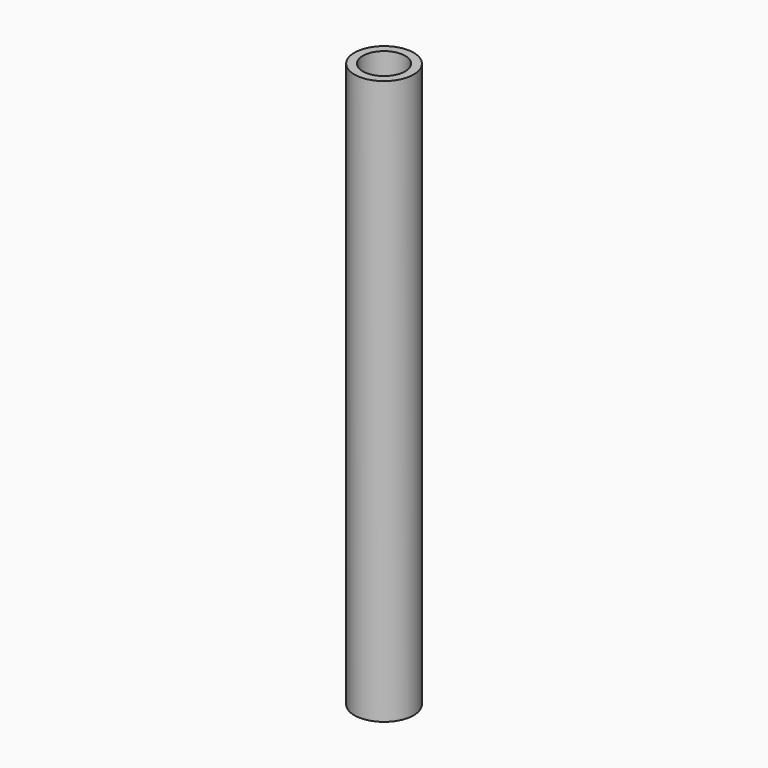
from build123d import *

# Parameters (mm, degrees)
CYLINDER001_R     = 9.525
CYLINDER001_DEPTH = 254
CYLINDER_R        = 13.335
CYLINDER_DEPTH    = 254


with BuildPart() as f_0_75_id:
    # Cylinder001 → Cylinder001 (new body)
    with BuildSketch(Plane.XY):
        Circle(CYLINDER001_R)
    extrude(amount=CYLINDER001_DEPTH)


with BuildPart() as f_0_75in_x_10in_npt_pipe:
    # Cylinder → Cylinder (new body)
    with BuildSketch(Plane.XY):
        Circle(CYLINDER_R)
    extrude(amount=CYLINDER_DEPTH)

    # Cut: cut 0.75 ID
    add(f_0_75_id.part, mode=Mode.SUBTRACT)


solid = f_0_75in_x_10in_npt_pipe.part
